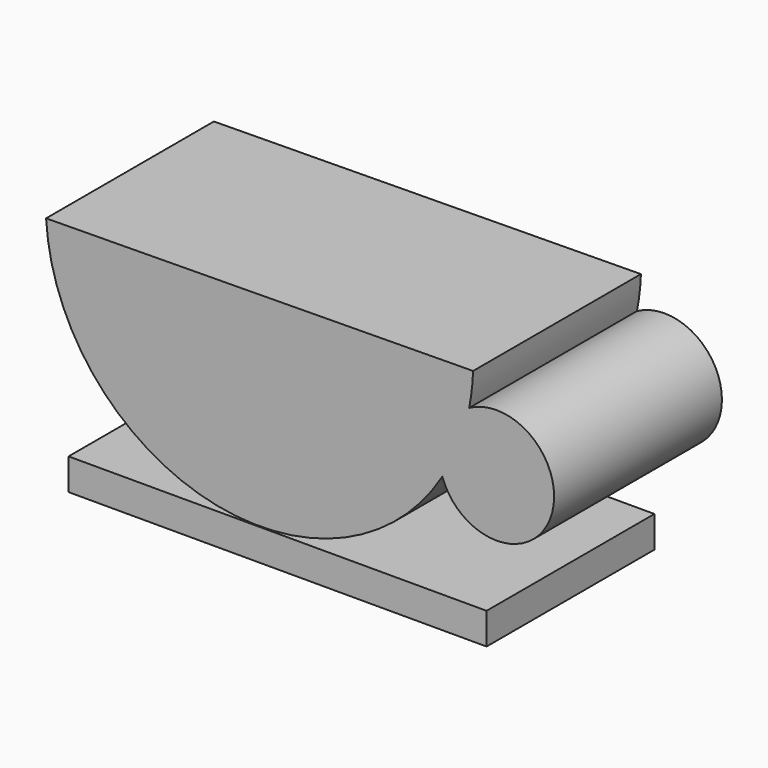
from build123d import *

# Parameters (mm, degrees)
F0_W     = 50.618568
F0_H     = 3.809999
F1_DEPTH = 25.4


with BuildPart() as f1:
    # F0 (on Front) → F1 (new body)
    with BuildSketch(Plane.XZ):
        with BuildLine():
            Line((23.676431, 15.240001), (-28.030714, 14.695714))
            ThreePointArc((-28.030714, 14.695714), (-8.436998, -8.948261), (19.949959, 2.762076))
            ThreePointArc((19.949959, 2.762076), (21.942402, 6.811929), (23.201031, 11.146326))
            ThreePointArc((23.201031, 11.146326), (23.520337, 13.183686), (23.676431, 15.240001))
        make_face()
        with BuildLine():
            ThreePointArc((23.201031, 11.146326), (21.942402, 6.811929), (19.949959, 2.762076))
            ThreePointArc((19.949959, 2.762076), (33.014855, 2.518482), (23.201031, 11.146326))
        make_face()
        with Locations((-1e-06, -11.702143)):
            Rectangle(F0_W, F0_H)
    extrude(amount=F1_DEPTH)


solid = f1.part
